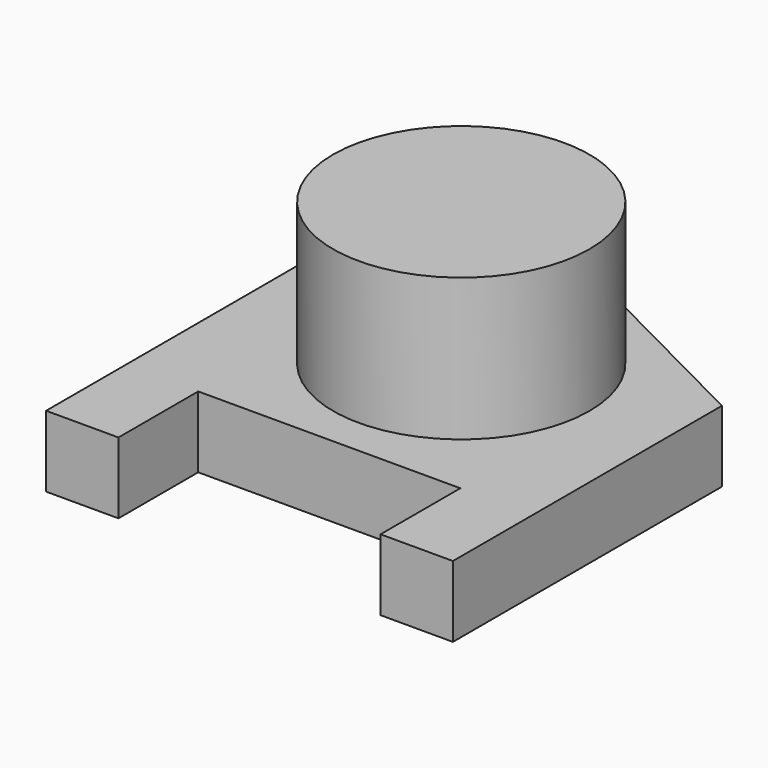
from build123d import *

# Parameters (mm, degrees)
F0_R     = 45
F1_DEPTH = 25
F2_DEPTH = 75


with BuildPart() as f1:
    # F0 (on Top) → F1 (new body)
    with BuildSketch(Plane.XY):
        Polygon((-46, 35), (0, 35), (46, 35), (46, 0), (71.4, 0), (71.4, 118.031361), (0, 154.243145), (-71.4, 118.031361), (-71.4, 0), (-46, 0), align=None)
        with Locations((0, 92.911427)):
            Circle(F0_R, mode=Mode.SUBTRACT)
    extrude(amount=F1_DEPTH)

    # F0 (on Top) → F2 (join)
    with BuildSketch(Plane.XY):
        with Locations((0, 92.911427)):
            Circle(F0_R)
    extrude(amount=F2_DEPTH)


solid = f1.part
